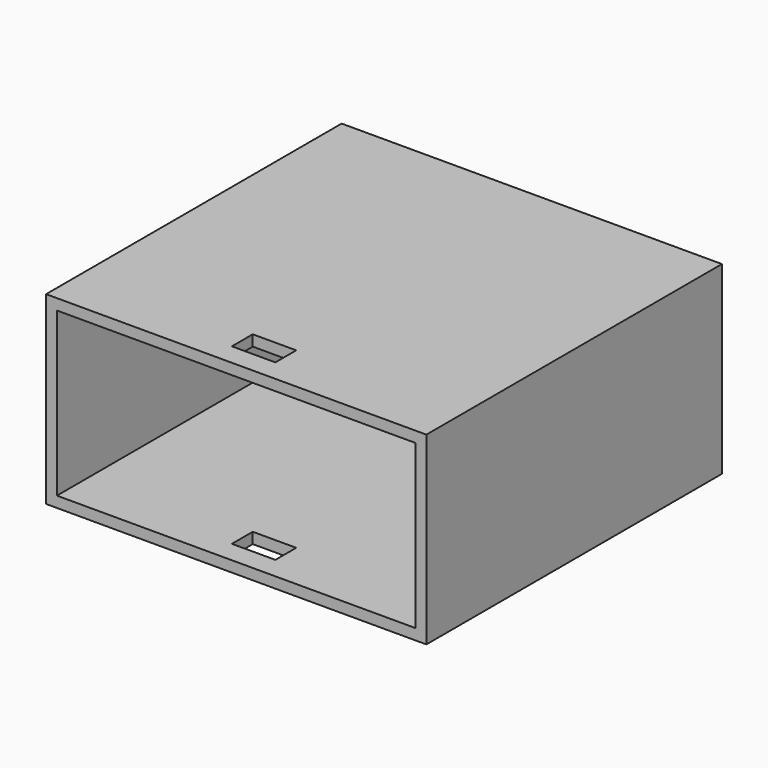
from build123d import *

# Parameters (mm, degrees)
SKETCH027_W      = 4
SKETCH027_H      = 2.4
EXTRUDE024_DEPTH = 20
SKETCH_W         = 35
SKETCH_H         = 17
SKETCH_W_2       = 33
SKETCH_H_2       = 15
EXTRUDE_DEPTH    = 34


with BuildPart() as extrude024:
    # Sketch027 → Extrude024 (new body)
    with BuildSketch(Plane.XY.offset(18)):
        with Locations((25.5, -25.8)):
            Rectangle(SKETCH027_W, SKETCH027_H)
    extrude(amount=-EXTRUDE024_DEPTH)


with BuildPart() as cut001:
    # Sketch → Extrude (new body)
    with BuildSketch(Plane.XZ.offset(29)):
        with Locations((25.5, 7.5)):
            Rectangle(SKETCH_W, SKETCH_H)
        with Locations((25.5, 7.5)):
            Rectangle(SKETCH_W_2, SKETCH_H_2, mode=Mode.SUBTRACT)
    extrude(amount=-EXTRUDE_DEPTH)

    # Cut001: cut Extrude024
    add(extrude024.part, mode=Mode.SUBTRACT)


solid = cut001.part
